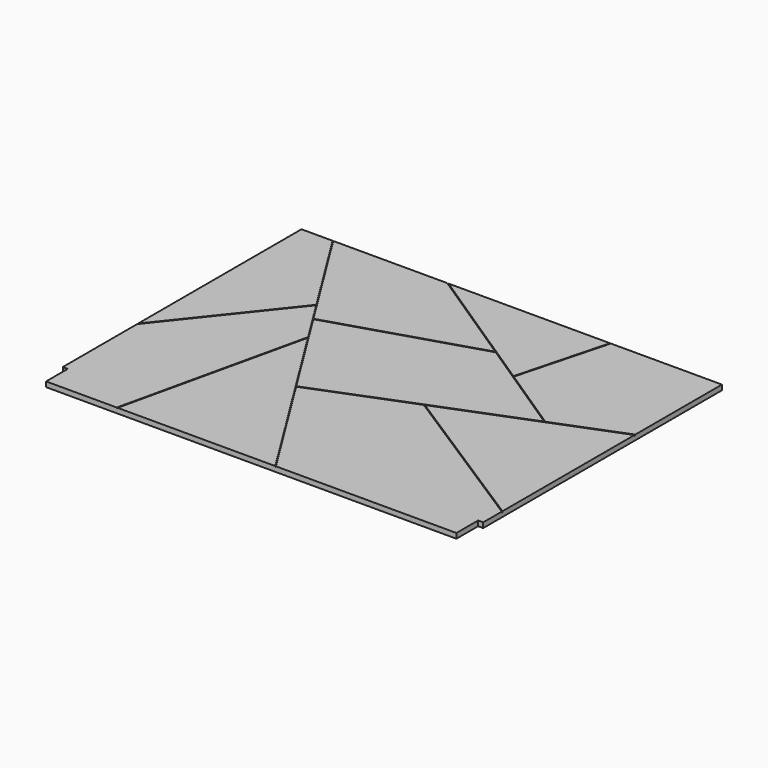
from build123d import *

# Parameters (mm, degrees)
F1_DEPTH = 19.05
F3_DEPTH = 3.175


with BuildPart() as f1:
    # F0 (on Top) → F1 (new body)
    with BuildSketch(Plane.XY):
        Polygon((18.796, 101.6), (18.796, 0), (1555.75, 0), (1555.75, 101.6), (1574.8, 101.6), (1574.8, 1219.2), (0, 1219.2), (0, 101.6), align=None)
    extrude(amount=F1_DEPTH)

    # F2 (on face) → F3 (cut)
    with BuildSketch(Plane.XY.offset(19.05)):
        Polygon((382.59577, 798.70488), (120.253995, 1219.2), (116.511754, 1219.2), (117.560255, 1217.519408), (332.67855, 872.716551), (0, 454.849424), (0, 449.751884), (334.46158, 869.858618), (441.840724, 697.745709), (283.514172, 0), (286.769884, 0), (444.228125, 693.919057), (877.155758, 0), (880.897999, 0), (611.923975, 431.125635), (973.961011, 573.567479), (1573.085578, 189.202644), (1574.8, 188.102767), (1574.8, 191.874981), (977.605698, 575.001465), (1574.8, 809.964879), (1574.8, 813.376784), (1318.691482, 712.612039), (1316.828402, 713.841244), (1068.091723, 877.950335), (1158.75492, 1219.2), (1155.469775, 1219.2), (1065.29654, 879.794514), (550.866822, 1219.2), (545.101523, 1219.2), (926.663464, 967.456737), (383.392875, 798.952115), align=None)
        Polygon((1315.079902, 711.191079), (610.214859, 433.865096), (384.333451, 795.919634), (930.090713, 965.19554), align=None, mode=Mode.SUBTRACT)
    extrude(amount=-F3_DEPTH, mode=Mode.SUBTRACT)


solid = f1.part
